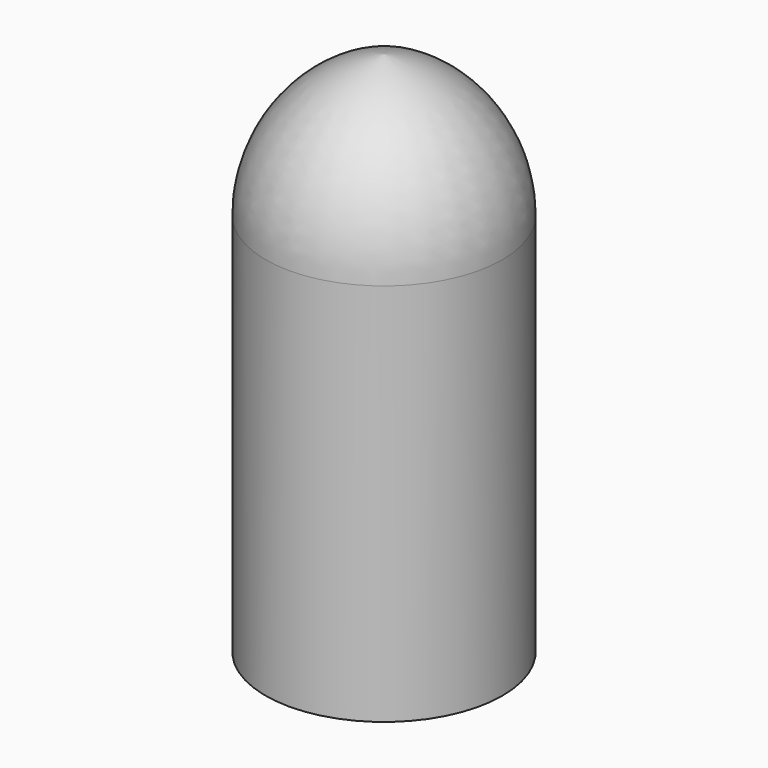
from build123d import *


with BuildPart() as f1:
    # F0 (on Front) → F1 (revolve)
    with BuildSketch(Plane.XZ):
        with BuildLine():
            Line((8.181759, -7.575703), (0, 0))
            Line((0, 0), (0, -3.461619))
            Line((0, -3.461619), (10.721759, -13.389174))
            Line((10.721759, -13.389174), (10.721759, 21.344964))
            ThreePointArc((10.721759, 21.344964), (7.691269, 29.730883), (0, 34.24219))
            Line((0, 34.24219), (0, 31.647923))
            ThreePointArc((0, 31.647923), (5.887522, 27.923189), (8.181759, 21.344964))
            Line((8.181759, 21.344964), (8.181759, -7.575703))
        make_face()
    revolve(axis=Axis((0, 0, -1.73081), (0, 0, -1)))


solid = f1.part
